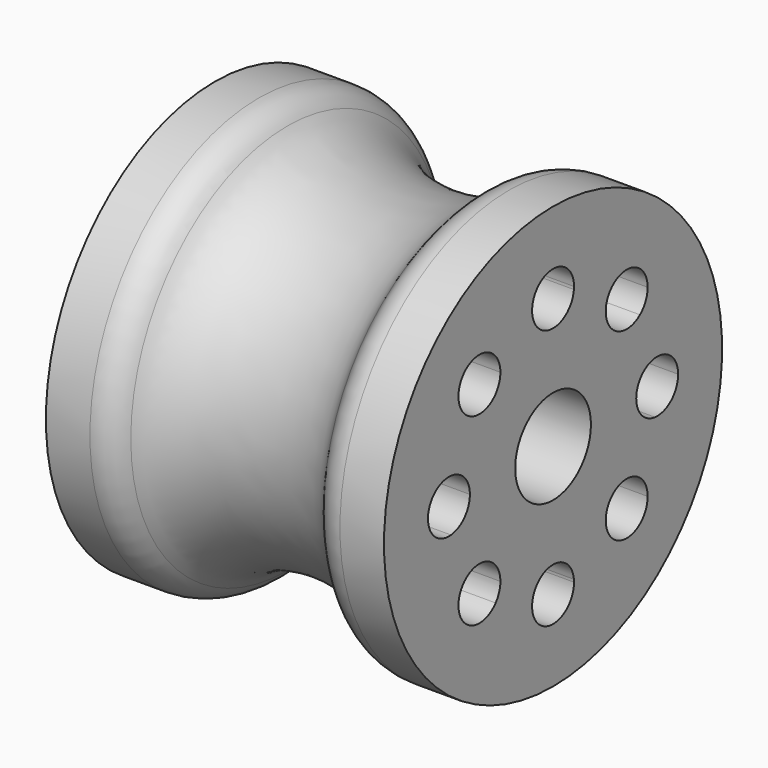
from build123d import *

# Parameters (mm, degrees)
F2_R     = 3.556
F3_DEPTH = 25.4


with BuildPart() as f1:
    # F0 (on Front) → F1 (revolve)
    with BuildSketch(Plane.XZ):
        with BuildLine():
            Line((-34.355558762, 32.0035794258), (-34.355558762, 16.1285794258))
            Line((-34.355558762, 16.1285794258), (-8.955558762, 16.1285794258))
            Line((-8.955558762, 16.1285794258), (-8.955558762, 32.0035794258))
            Line((-8.955558762, 32.0035794258), (-12.2648811793, 32.0035794258))
            ThreePointArc((-12.2648811793, 32.0035794258), (-13.481873716, 31.6930477852), (-14.4012956315, 30.8373819184))
            add(Edge.make_bspline(
                [(-28.9098218924, 30.8373819184), (-21.655558762, 19.5562023631), (-14.4012956315, 30.8373819184)],
                knots=[0.3110816849, 0.3110816849, 0.3110816849, 2.8305109687, 2.8305109687, 2.8305109687], degree=2, weights=[1, 0.3060885826, 1]))
            ThreePointArc((-28.9098218924, 30.8373819184), (-29.8292438079, 31.6930477852), (-31.0462363446, 32.0035794258))
            Line((-31.0462363446, 32.0035794258), (-34.355558762, 32.0035794258))
        make_face()
    revolve(axis=Axis((-21.655558762, 0, 16.1285794258), (1, 0, 0)))

    # F2 (on face) → F3 (cut)
    with BuildSketch(Plane.YZ.offset(-8.955558762)):
        with BuildLine():
            ThreePointArc((5.3898280119, 24.2881501867), (5.5228575145, 21.6514369403), (8.1595707609, 21.5184074377))
            ThreePointArc((8.1595707609, 21.5184074377), (6.9147972132, 23.043376639), (5.3898280119, 24.2881501867))
        make_face()
        with BuildLine():
            ThreePointArc((5.3898280119, 24.2881501867), (6.9147972132, 23.043376639), (8.1595707609, 21.5184074377))
            ThreePointArc((8.1595707609, 21.5184074377), (8.6931853849, 22.1993815202), (8.8832972132, 23.043376639))
            ThreePointArc((8.8832972132, 23.043376639), (7.5755128772, 24.8976816467), (5.3898280119, 24.2881501867))
        make_face()
        with BuildLine():
            ThreePointArc((-1.95850388, 25.7094511791), (0, 23.9390794258), (1.95850388, 25.7094511791))
            ThreePointArc((1.95850388, 25.7094511791), (0, 25.9075794258), (-1.95850388, 25.7094511791))
        make_face()
        with BuildLine():
            ThreePointArc((-1.95850388, 25.7094511791), (0, 25.9075794258), (1.95850388, 25.7094511791))
            ThreePointArc((1.95850388, 25.7094511791), (1.9659993817, 25.8083892996), (1.9685, 25.9075794258))
            ThreePointArc((1.9685, 25.9075794258), (-0.0991901262, 27.8735788075), (-1.95850388, 25.7094511791))
        make_face()
        with BuildLine():
            ThreePointArc((-4.9462972132, 23.043376639), (-5.0604922056, 23.704092303), (-5.3898280119, 24.2881501867))
            ThreePointArc((-5.3898280119, 24.2881501867), (-6.9147972132, 23.043376639), (-8.1595707609, 21.5184074377))
            ThreePointArc((-8.1595707609, 21.5184074377), (-6.0708020943, 21.2649884673), (-4.9462972132, 23.043376639))
        make_face()
        with BuildLine():
            ThreePointArc((-8.1595707609, 21.5184074377), (-6.9147972132, 23.043376639), (-5.3898280119, 24.2881501867))
            ThreePointArc((-5.3898280119, 24.2881501867), (-8.306736912, 24.4353163378), (-8.1595707609, 21.5184074377))
        make_face()
        with BuildLine():
            ThreePointArc((-7.8105, 16.1285794258), (-8.3186904945, 17.4486129095), (-9.5808717532, 18.0870833058))
            ThreePointArc((-9.5808717532, 18.0870833058), (-9.779, 16.1285794258), (-9.5808717532, 14.1700755458))
            ThreePointArc((-9.5808717532, 14.1700755458), (-8.3186904945, 14.8085459421), (-7.8105, 16.1285794258))
        make_face()
        with BuildLine():
            ThreePointArc((-9.5808717532, 14.1700755458), (-9.779, 16.1285794258), (-9.5808717532, 18.0870833058))
            ThreePointArc((-9.5808717532, 18.0870833058), (-11.7475, 16.1285794258), (-9.5808717532, 14.1700755458))
        make_face()
        with BuildLine():
            ThreePointArc((-8.1595707609, 10.7387514139), (-6.9147972132, 9.2137822126), (-5.3898280119, 7.9690086649))
            ThreePointArc((-5.3898280119, 7.9690086649), (-5.0604922056, 8.5530665486), (-4.9462972132, 9.2137822126))
            ThreePointArc((-4.9462972132, 9.2137822126), (-6.0708020943, 10.9921703843), (-8.1595707609, 10.7387514139))
        make_face()
        with BuildLine():
            ThreePointArc((-8.1595707609, 10.7387514139), (-8.306736912, 7.8218425138), (-5.3898280119, 7.9690086649))
            ThreePointArc((-5.3898280119, 7.9690086649), (-6.9147972132, 9.2137822126), (-8.1595707609, 10.7387514139))
        make_face()
        with BuildLine():
            ThreePointArc((-1.95850388, 6.5477076726), (0, 6.3495794258), (1.95850388, 6.5477076726))
            ThreePointArc((1.95850388, 6.5477076726), (0, 8.3180794258), (-1.95850388, 6.5477076726))
        make_face()
        with BuildLine():
            ThreePointArc((1.9685, 6.3495794258), (1.9659993817, 6.4487695521), (1.95850388, 6.5477076726))
            ThreePointArc((1.95850388, 6.5477076726), (0, 6.3495794258), (-1.95850388, 6.5477076726))
            ThreePointArc((-1.95850388, 6.5477076726), (-0.0991901262, 4.3835800441), (1.9685, 6.3495794258))
        make_face()
        with BuildLine():
            ThreePointArc((5.3898280119, 7.9690086649), (6.9147972132, 9.2137822126), (8.1595707609, 10.7387514139))
            ThreePointArc((8.1595707609, 10.7387514139), (5.5228575145, 10.6057219114), (5.3898280119, 7.9690086649))
        make_face()
        with BuildLine():
            ThreePointArc((8.8832972132, 9.2137822126), (8.6931853849, 10.0577773315), (8.1595707609, 10.7387514139))
            ThreePointArc((8.1595707609, 10.7387514139), (6.9147972132, 9.2137822126), (5.3898280119, 7.9690086649))
            ThreePointArc((5.3898280119, 7.9690086649), (7.5755128772, 7.3594772049), (8.8832972132, 9.2137822126))
        make_face()
        with BuildLine():
            ThreePointArc((9.5808717532, 14.1700755458), (9.7293418553, 15.1443294258), (9.779, 16.1285794258))
            ThreePointArc((9.779, 16.1285794258), (9.7293418553, 17.1128294258), (9.5808717532, 18.0870833058))
            ThreePointArc((9.5808717532, 18.0870833058), (7.8105, 16.1285794258), (9.5808717532, 14.1700755458))
        make_face()
        with BuildLine():
            ThreePointArc((9.5808717532, 18.0870833058), (9.7293418553, 17.1128294258), (9.779, 16.1285794258))
            ThreePointArc((9.779, 16.1285794258), (9.7293418553, 15.1443294258), (9.5808717532, 14.1700755458))
            ThreePointArc((9.5808717532, 14.1700755458), (11.0990334837, 14.6682699203), (11.7475, 16.1285794258))
            ThreePointArc((11.7475, 16.1285794258), (11.0990334837, 17.5888889313), (9.5808717532, 18.0870833058))
        make_face()
        with Locations((0, 16.1285794258)):
            Circle(F2_R)
    extrude(amount=-F3_DEPTH, mode=Mode.SUBTRACT)


solid = f1.part
